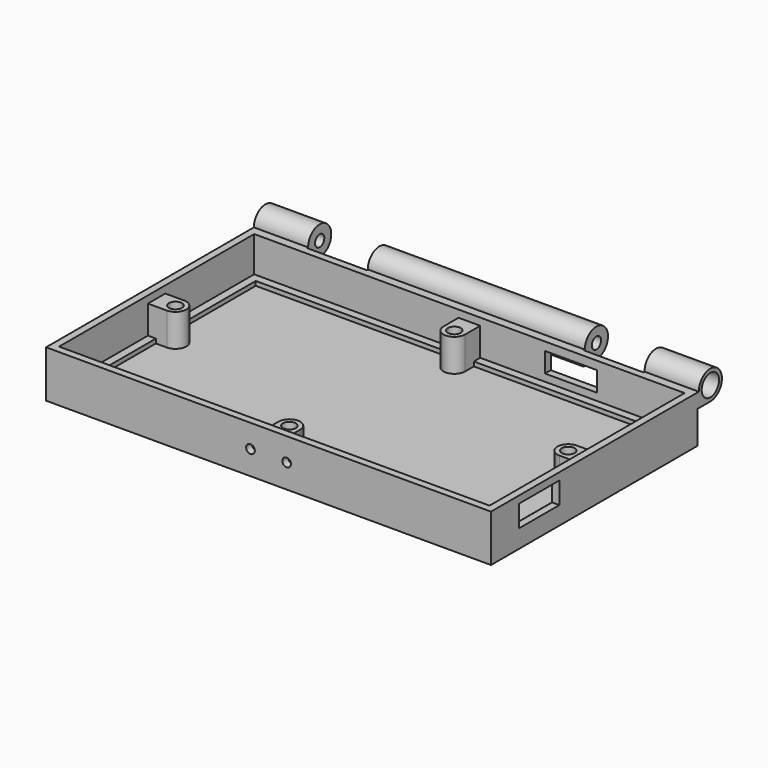
from build123d import *

# Parameters (mm, degrees)
SKETCH036_R       = 1.6
PAD001_DEPTH      = 61.5
PAD001_DEPTH_BACK = 61.5
SKETCH037_W       = 16.5
SKETCH037_H       = 8
POCKET_DEPTH      = 4
POCKET_DEPTH_BACK = 4
SKETCH044_W       = 119
SKETCH044_H       = 67.4
POCKET007_DEPTH   = 2
SKETCH045_W       = 114.6
SKETCH045_H       = 63
POCKET008_DEPTH   = 9
SKETCH046_R       = 1.8
PAD002_DEPTH      = 9
SKETCH047_W       = 56.5
SKETCH047_H       = 30.7
POCKET009_DEPTH   = 7.8
SKETCH048_R       = 1.2
POCKET010_DEPTH   = 2
SKETCH052_W       = 16.5
SKETCH052_H       = 4
POCKET014_DEPTH   = 0.4
SKETCH053_W       = 14.4
SKETCH053_H       = 5.5
POCKET015_DEPTH   = 2.2
SKETCH054_W       = 14
SKETCH054_H       = 6
POCKET016_DEPTH   = 2
SKETCH055_R       = 3
POCKET017_DEPTH   = 4
SKETCH056_R       = 3
POCKET018_DEPTH   = 4


with BuildPart() as part:
    # Sketch036 (on Face1 of Binder001) → Pad001 (new body, two sides)
    with BuildSketch(Plane.YZ) as pad001_sk:
        with BuildLine():
            ThreePointArc((0, -4), (2.828427, 2.828427), (-4, 0))
            Line((-75.8, 0), (-4, 0))
            Line((-75.8, -13), (-75.8, 0))
            Line((-4.4, -13), (-75.8, -13))
            Line((-4.4, -4), (-4.4, -13))
            Line((0, -4), (-4.4, -4))
        make_face()
        Circle(SKETCH036_R, mode=Mode.SUBTRACT)
    extrude(amount=PAD001_DEPTH)
    extrude(pad001_sk.sketch, amount=-PAD001_DEPTH_BACK)

    # Sketch037 → Pocket (cut, two sides)
    with BuildSketch(Plane.XY) as pocket_sk:
        with Locations((-38.25, 0)):
            Rectangle(SKETCH037_W, SKETCH037_H)
        with Locations((38.25, 0)):
            Rectangle(SKETCH037_W, SKETCH037_H)
    extrude(amount=-POCKET_DEPTH, mode=Mode.SUBTRACT)
    extrude(pocket_sk.sketch, amount=POCKET_DEPTH_BACK, mode=Mode.SUBTRACT)

    # Sketch044 → Pocket007 (cut)
    with BuildSketch(Plane.XY):
        with Locations((0, -40.1)):
            Rectangle(SKETCH044_W, SKETCH044_H)
    extrude(amount=-POCKET007_DEPTH, mode=Mode.SUBTRACT)

    # Sketch045 (on Face23 of Pocket007) → Pocket008 (cut)
    with BuildSketch(Plane.XY.offset(-2)):
        with Locations((0, -40.1)):
            Rectangle(SKETCH045_W, SKETCH045_H)
    extrude(amount=-POCKET008_DEPTH, mode=Mode.SUBTRACT)

    # Sketch046 (on Face29 of Pocket008) → Pad002 (join)
    with BuildSketch(Plane.XY.offset(-11)):
        with BuildLine():
            ThreePointArc((-54.3, -43.1), (-51.3, -40.1), (-54.3, -37.1))
            Line((-57.3, -37.1), (-54.3, -37.1))
            Line((-57.3, -43.1), (-57.3, -37.1))
            Line((-54.3, -43.1), (-57.3, -43.1))
        make_face()
        with Locations((-54.3, -40.1)):
            Circle(SKETCH046_R, mode=Mode.SUBTRACT)
        with BuildLine():
            ThreePointArc((-3, -11.6), (0, -14.6), (3, -11.6))
            Line((3, -8.6), (3, -11.6))
            Line((-3, -8.6), (3, -8.6))
            Line((-3, -11.6), (-3, -8.6))
        make_face()
        with Locations((0, -11.6)):
            Circle(SKETCH046_R, mode=Mode.SUBTRACT)
        with BuildLine():
            ThreePointArc((54.3, -37.1), (51.3, -40.1), (54.3, -43.1))
            Line((57.3, -43.1), (54.3, -43.1))
            Line((57.3, -37.1), (57.3, -43.1))
            Line((54.3, -37.1), (57.3, -37.1))
        make_face()
        with Locations((54.3, -40.1)):
            Circle(SKETCH046_R, mode=Mode.SUBTRACT)
        with BuildLine():
            ThreePointArc((3, -68.6), (0, -65.6), (-3, -68.6))
            Line((-3, -68.6), (-3, -71.6))
            Line((-3, -71.6), (3, -71.6))
            Line((3, -71.6), (3, -68.6))
        make_face()
        with Locations((0, -68.6)):
            Circle(SKETCH046_R, mode=Mode.SUBTRACT)
    extrude(amount=PAD002_DEPTH)

    # Sketch047 (on Face24 of Pad002) → Pocket009 (cut)
    with BuildSketch(Plane.XY.offset(-2)):
        with Locations((-31.25, -21.75)):
            Rectangle(SKETCH047_W, SKETCH047_H)
        with Locations((31.25, -21.75)):
            Rectangle(SKETCH047_W, SKETCH047_H)
        with Locations((31.25, -58.45)):
            Rectangle(SKETCH047_W, SKETCH047_H)
        with Locations((-31.25, -58.45)):
            Rectangle(SKETCH047_W, SKETCH047_H)
    extrude(amount=-POCKET009_DEPTH, mode=Mode.SUBTRACT)

    # Sketch048 (on Face6 of Pocket009) → Pocket010 (cut)
    with BuildSketch(Plane.XZ.offset(75.8)):
        with Locations((-5, -6.4)):
            Circle(SKETCH048_R)
        with Locations((5, -6.4)):
            Circle(SKETCH048_R)
    extrude(amount=-POCKET010_DEPTH, mode=Mode.SUBTRACT)

    # Sketch052 (on Face13 of Pocket010) → Pocket014 (cut)
    with BuildSketch(Plane(origin=(0, -4, 0), x_dir=(-1, 0, 0), z_dir=(0, 1, 0))):
        with Locations((38.25, -2)):
            Rectangle(SKETCH052_W, SKETCH052_H)
        with Locations((-38.25, -2)):
            Rectangle(SKETCH052_W, SKETCH052_H)
    extrude(amount=-POCKET014_DEPTH, mode=Mode.SUBTRACT)

    # Sketch053 (on Face58 of Pocket014) → Pocket015 (cut)
    with BuildSketch(Plane(origin=(0, -4.4, 0), x_dir=(-1, 0, 0), z_dir=(0, 1, 0))):
        with Locations((-28.1, -5.05)):
            Rectangle(SKETCH053_W, SKETCH053_H)
    extrude(amount=-POCKET015_DEPTH, mode=Mode.SUBTRACT)

    # Sketch054 (on Face15 of Pocket015) → Pocket016 (cut)
    with BuildSketch(Plane.YZ.offset(61.5)):
        with Locations((-59.2, -5)):
            Rectangle(SKETCH054_W, SKETCH054_H)
    extrude(amount=-POCKET016_DEPTH, mode=Mode.SUBTRACT)

    # Sketch055 (on Face15 of Pocket016) → Pocket017 (cut)
    with BuildSketch(Plane.YZ.offset(61.5)):
        Circle(SKETCH055_R)
    extrude(amount=-POCKET017_DEPTH, mode=Mode.SUBTRACT)

    # Sketch056 (on Face2 of Pocket017) → Pocket018 (cut)
    with BuildSketch(Plane(origin=(-61.5, 0, 0), x_dir=(0, -1, 0), z_dir=(-1, 0, 0))):
        Circle(SKETCH056_R)
    extrude(amount=-POCKET018_DEPTH, mode=Mode.SUBTRACT)


solid = part.part
